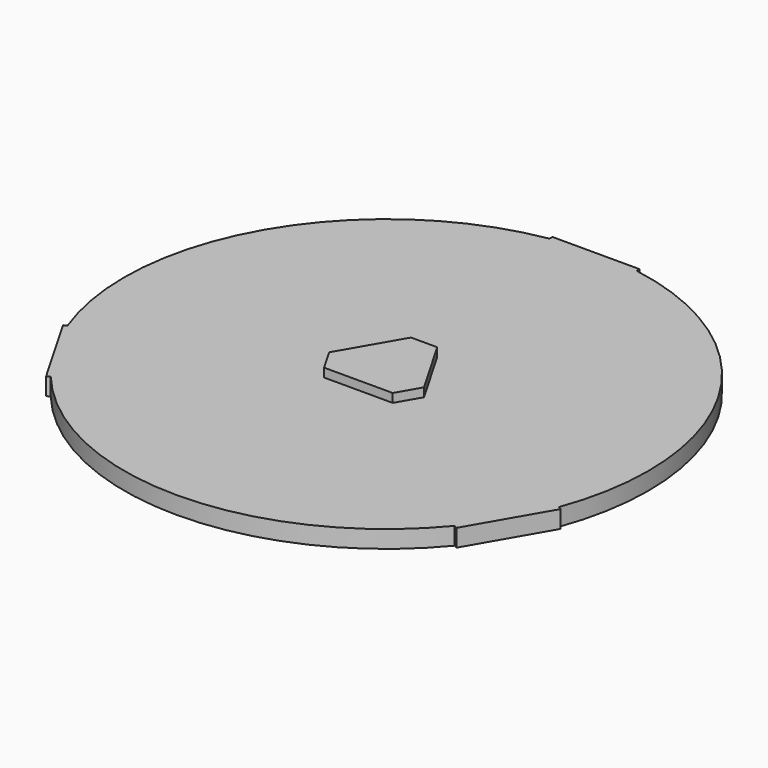
from build123d import *

# Parameters (mm, degrees)
F1_DEPTH = 10
F3_DEPTH = 5


with BuildPart() as f1:
    # F0 (on Top) → F1 (new body)
    with BuildSketch(Plane.XY):
        with BuildLine():
            Line((-117.403811, -96.650635), (-115.586885, -95.601632))
            ThreePointArc((-115.586885, -95.601632), (0, -150), (115.586885, -95.601632))
            Line((115.586885, -95.601632), (117.403811, -96.650635))
            Line((117.403811, -96.650635), (129.903811, -75))
            Line((129.903811, -75), (142.403811, -53.349365))
            Line((142.403811, -53.349365), (140.586885, -52.300362))
            ThreePointArc((140.586885, -52.300362), (129.903811, 75), (25, 147.901995))
            Line((25, 147.901995), (25, 150))
            Line((25, 150), (0, 150))
            Line((0, 150), (-25, 150))
            Line((-25, 150), (-25, 147.901995))
            ThreePointArc((-25, 147.901995), (-129.903811, 75), (-140.586885, -52.300362))
            Line((-140.586885, -52.300362), (-142.403811, -53.349365))
            Line((-142.403811, -53.349365), (-129.903811, -75))
            Line((-129.903811, -75), (-117.403811, -96.650635))
        make_face()
    extrude(amount=-F1_DEPTH)


with BuildPart() as f3:
    # F2 (on Top) → F3 (new body)
    with BuildSketch(Plane.XY):
        Polygon((27.141016, -7.009619), (7.5, 27.009619), (-7.5, 27.009619), (-27.141016, -7.009619), (-19.641016, -20), (19.641016, -20), align=None)
    extrude(amount=F3_DEPTH)


solid = Compound([f1.part, f3.part])
